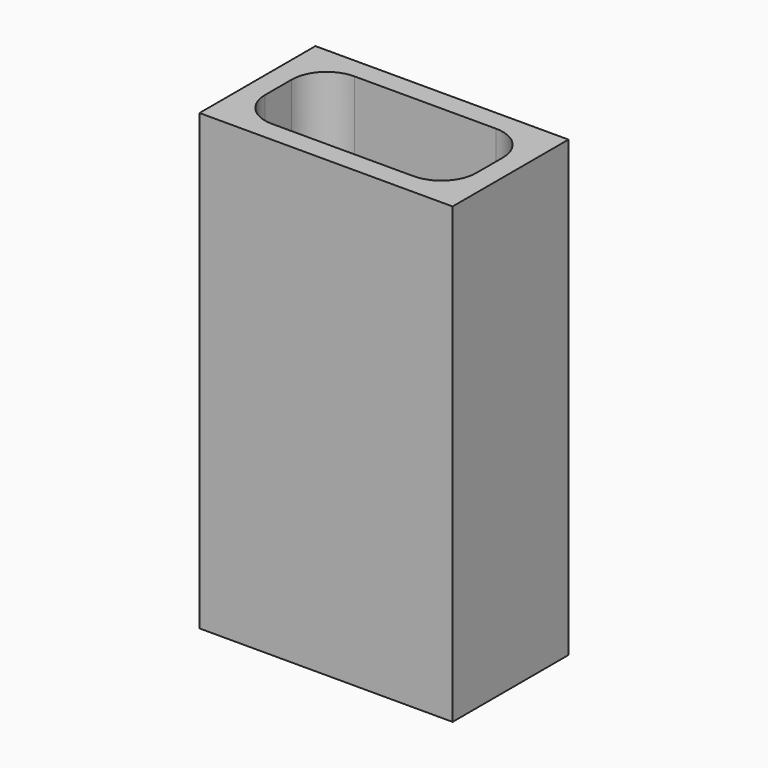
from build123d import *

# Parameters (mm, degrees)
F1_W     = 36.25
F1_H     = 20.75
F2_DEPTH = 65


with BuildPart() as f2:
    # F1 (on face) → F2 (new body)
    with BuildSketch(Plane.XY):
        with Locations((15.125, 7.375)):
            Rectangle(F1_W, F1_H)
        with BuildLine():
            ThreePointArc((5, 0), (1.464466, 1.464466), (0, 5))
            Line((0, 5), (0, 9.75))
            ThreePointArc((0, 9.75), (1.464466, 13.285534), (5, 14.75))
            Line((5, 14.75), (25.25, 14.75))
            ThreePointArc((25.25, 14.75), (28.785534, 13.285534), (30.25, 9.75))
            Line((30.25, 9.75), (30.25, 5))
            ThreePointArc((30.25, 5), (28.785534, 1.464466), (25.25, 0))
            Line((25.25, 0), (5, 0))
        make_face(mode=Mode.SUBTRACT)
    extrude(amount=F2_DEPTH)


solid = f2.part
